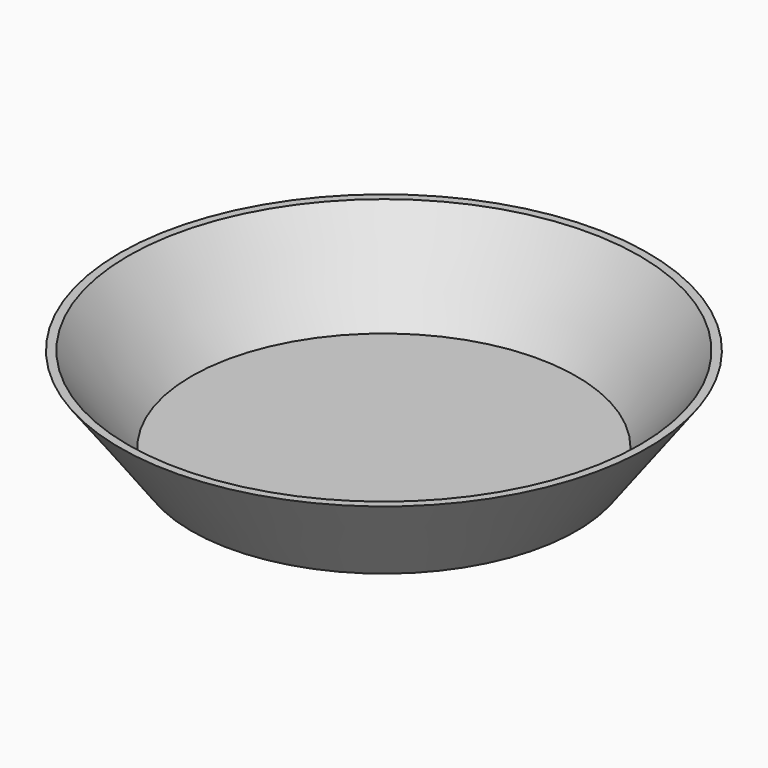
from build123d import *

# Parameters (mm, degrees)
F0_W = 35
F0_H = 2


with BuildPart() as f1:
    # F0 (on Front) → F1 (revolve)
    with BuildSketch(Plane.XZ):
        Polygon((-44.469413, -9.677429), (-44.469413, -7.677429), (-55.967238, 7.835664), (-57.449576, 7.835664), align=None)
        with Locations((-26.969413, -8.677429)):
            Rectangle(F0_W, F0_H)
    revolve(axis=Axis((-9.469413, 0, -8.677429), (0, 0, -1)))


solid = f1.part
